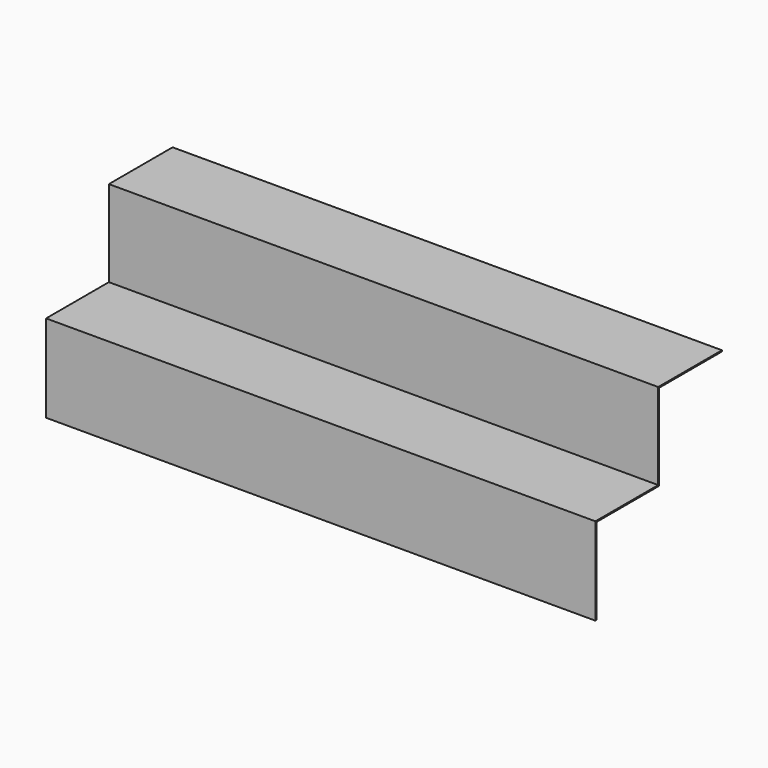
from build123d import *

# Parameters (mm, degrees)
F0_W     = 3
F0_H     = 220
F1_DEPTH = 1400


with BuildPart() as f1:
    # F0 (on Right) → F1 (new body)
    with BuildSketch(Plane.YZ):
        Polygon((101.5, 1.5), (-101.5, 1.5), (-101.5, -1.5), (-98.5, -1.5), (101.5, -1.5), align=None)
        Polygon((-98.5, -1.5), (-101.5, -1.5), (-101.5, -218.5), (-101.5, -221.5), (-98.5, -221.5), align=None)
        Polygon((-101.5, -221.5), (-101.5, -218.5), (-301.5, -218.5), (-301.5, -221.5), (-298.5, -221.5), align=None)
        with Locations((-300, -331.5)):
            Rectangle(F0_W, F0_H)
    extrude(amount=F1_DEPTH)


solid = f1.part
